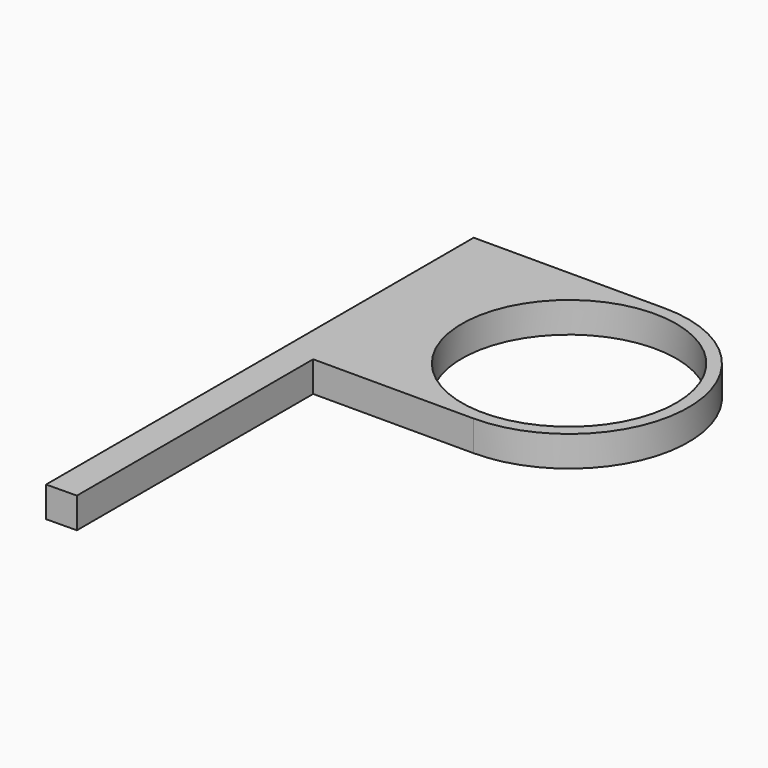
from build123d import *

# Parameters (mm, degrees)
F0_R     = 22.2885
F1_DEPTH = 6.35


with BuildPart() as f1:
    # F0 (on Top) → F1 (new body)
    with BuildSketch(Plane.XY):
        with BuildLine():
            Line((-33.337868, -24.8285), (0, -24.8285))
            ThreePointArc((0, -24.8285), (24.8285, 0), (0, 24.8285))
            Line((0, 24.8285), (-39.6875, 24.8285))
            Line((-39.6875, 24.8285), (-39.6875, -86.2965))
            Line((-39.6875, -86.2965), (-33.337868, -86.228111))
            Line((-33.337868, -86.228111), (-33.337868, -24.8285))
        make_face()
        Circle(F0_R, mode=Mode.SUBTRACT)
    extrude(amount=F1_DEPTH)


solid = f1.part
